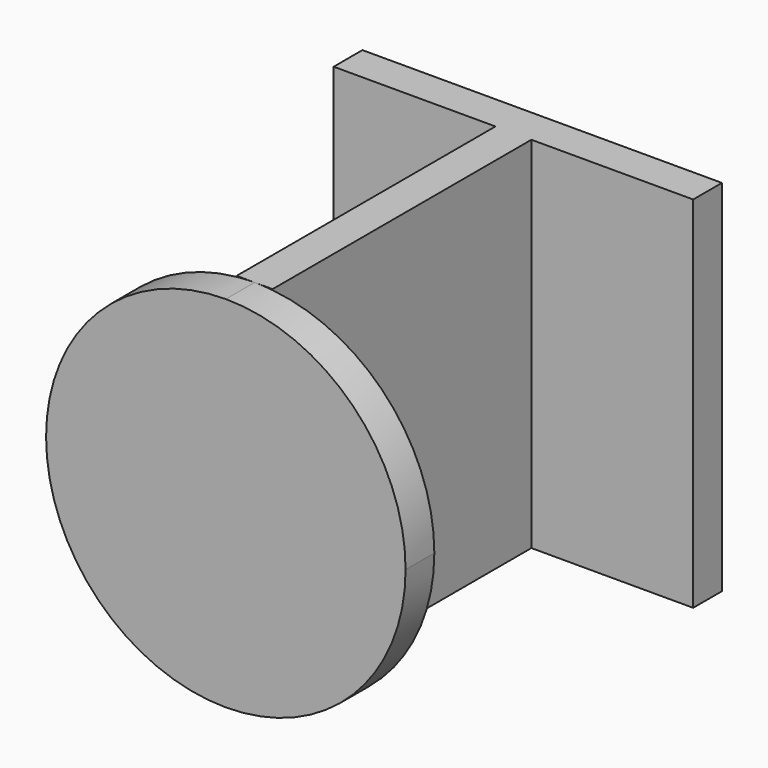
from build123d import *

# Parameters (mm, degrees)
F3_W     = 127
F3_H     = 127
F4_DEPTH = 6.35
F5_DEPTH = 12.7
F0_W     = 63.5
F0_H     = 63.5
F6_DEPTH = 12.7


with BuildPart() as f4:
    # F3 (on Right) → F4 (new body, symmetric)
    with BuildSketch(Plane.YZ):
        with Locations((-63.5, 0)):
            Rectangle(F3_W, F3_H)
    extrude(amount=F4_DEPTH, both=True)

    # F2 (on offset) → F5 (join)
    with BuildSketch(Plane.XZ.offset(127)):
        with BuildLine():
            ThreePointArc((-63.5, 0), (-44.901281, -44.901281), (0, -63.5))
            Line((0, -63.5), (0, 0))
            Line((0, 0), (-63.5, 0))
        make_face()
        with BuildLine():
            ThreePointArc((0, -63.5), (44.901281, -44.901281), (63.5, 0))
            Line((63.5, 0), (0, 0))
            Line((0, 0), (0, -63.5))
        make_face()
        with BuildLine():
            Line((0, 0), (0, 63.5))
            ThreePointArc((0, 63.5), (-44.901281, 44.901281), (-63.5, 0))
            Line((-63.5, 0), (0, 0))
        make_face()
        with BuildLine():
            Line((0, 0), (63.5, 0))
            ThreePointArc((63.5, 0), (44.901281, 44.901281), (0, 63.5))
            Line((0, 63.5), (0, 0))
        make_face()
    extrude(amount=F5_DEPTH)

    # F0 (on Front) → F6 (join)
    with BuildSketch(Plane.XZ):
        with Locations((-31.75, 31.75)):
            Rectangle(F0_W, F0_H)
        with Locations((31.75, 31.75)):
            Rectangle(F0_W, F0_H)
        with Locations((31.75, -31.75)):
            Rectangle(F0_W, F0_H)
        with Locations((-31.75, -31.75)):
            Rectangle(F0_W, F0_H)
    extrude(amount=F6_DEPTH)


solid = f4.part
